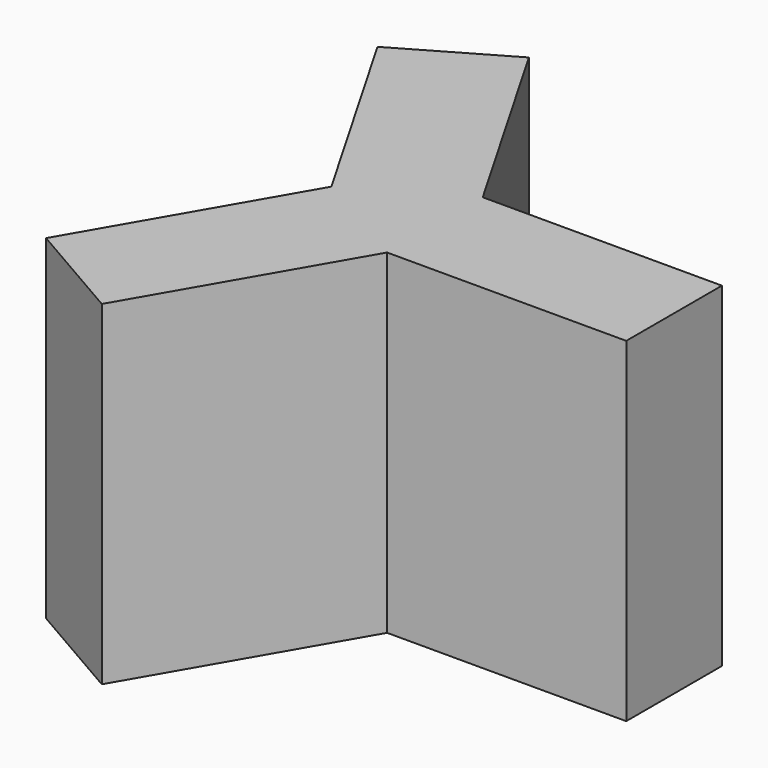
from build123d import *

# Parameters (mm, degrees)
F0_W     = 12.7
F0_H     = 6.35
F1_DEPTH = 17.78


with BuildPart() as f1:
    # F0 (on Top) → F1 (new body)
    with BuildSketch(Plane.XY):
        with Locations((6.35, 3.175)):
            Rectangle(F0_W, F0_H)
        Polygon((0, 0), (0, 6.35), (-6.35, 17.348523), (-11.849261, 14.173523), (-5.499261, 3.175), align=None)
        Polygon((-6.35, -10.998523), (0, 0), (-5.499261, 3.175), (-11.849261, -7.823523), align=None)
    extrude(amount=F1_DEPTH)


solid = f1.part
